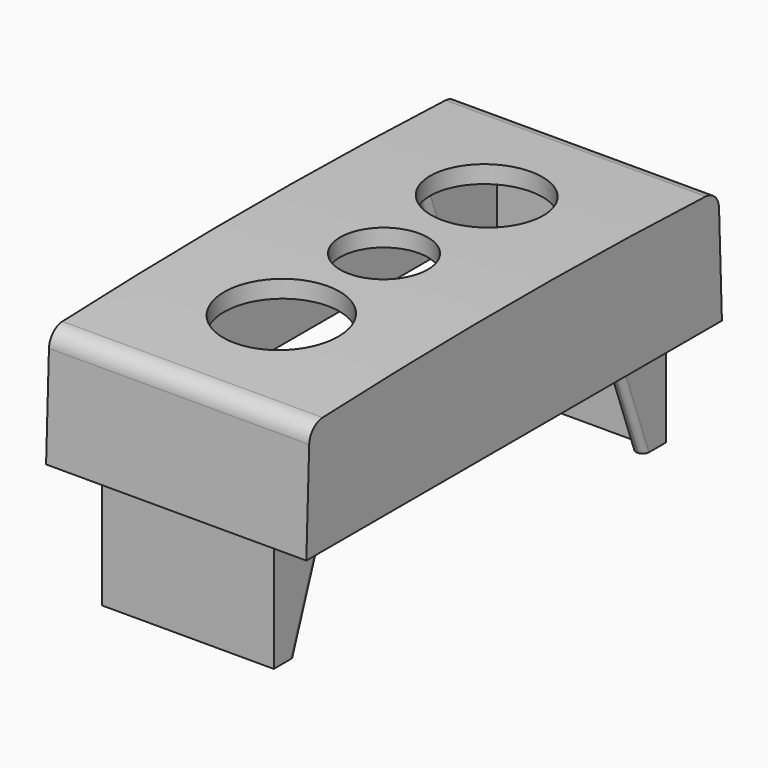
from build123d import *

# Parameters (mm, degrees)
PAD_DEPTH               = 9.65
PAD001_DEPTH            = 1.5
PAD002_DEPTH            = 1.5
SKETCH003_W             = 14.7
SKETCH003_H             = 1.07
PAD003_DEPTH            = 19
PAD004_DEPTH            = 1.1
PAD005_DEPTH            = 1.1
FILLET001_R             = 0.5
CHAMFER_SIZE            = 0.7
SKETCH011_R             = 3.75
SKETCH011_R_2           = 4.75
SKETCH011_R_3           = 5
POCKET001_DEPTH         = 5
POCKET001_DEPTH_BACK    = 5
BODY001_PLACEMENT_ANGLE = 90


with BuildPart() as part:
    # Sketch → Pad (new body, symmetric)
    with BuildSketch(Plane.YZ):
        with BuildLine():
            ThreePointArc((0, 20.5122), (-0.4209, 0), (0, -20.5122))
            ThreePointArc((0, -20.5122), (0.44097, -21.514212), (1.445369, -21.949718))
            Line((1.445369, -21.949718), (10.0791, -22.257094))
            Line((10.0791, -22.257094), (10.0791, -20.756143))
            Line((1.498737, -20.450667), (10.0791, -20.756143))
            ThreePointArc((1.498737, 20.450667), (1.0791, 0), (1.498737, -20.450667))
            Line((1.498737, 20.450667), (10.0791, 20.756143))
            Line((10.0791, 20.756143), (10.0791, 22.257094))
            Line((1.445369, 21.949718), (10.0791, 22.257094))
            ThreePointArc((1.445369, 21.949718), (0.44097, 21.514212), (0, 20.5122))
        make_face()
    extrude(amount=PAD_DEPTH, both=True)

    # Sketch001 → Pad001 (join)
    with BuildSketch(Plane.YZ.offset(9.65)):
        with BuildLine():
            ThreePointArc((0, 20.5122), (-0.4209, 0), (0, -20.5122))
            ThreePointArc((0, -20.5122), (0.44097, -21.514212), (1.445369, -21.949718))
            Line((1.445369, -21.949718), (10.0791, -22.257094))
            Line((10.0791, 22.257094), (10.0791, -22.257094))
            Line((1.445369, 21.949718), (10.0791, 22.257094))
            ThreePointArc((1.445369, 21.949718), (0.44097, 21.514212), (0, 20.5122))
        make_face()
    extrude(amount=PAD001_DEPTH)

    # Sketch002 → Pad002 (join)
    with BuildSketch(Plane.YZ.offset(-9.65)):
        with BuildLine():
            ThreePointArc((0, 20.5122), (-0.4209, 0), (0, -20.5122))
            ThreePointArc((0, -20.5122), (0.44097, -21.514212), (1.445369, -21.949718))
            Line((1.445369, -21.949718), (10.0791, -22.257094))
            Line((10.0791, 22.257094), (10.0791, -22.257094))
            Line((1.445369, 21.949718), (10.0791, 22.257094))
            ThreePointArc((1.445369, 21.949718), (0.44097, 21.514212), (0, 20.5122))
        make_face()
    extrude(amount=-PAD002_DEPTH)

    # Sketch003 → Pad003 (join)
    with BuildSketch(Plane.XZ.offset(-1)):
        with Locations((0, 20.46)):
            Rectangle(SKETCH003_W, SKETCH003_H)
        with Locations((0, -20.46)):
            Rectangle(SKETCH003_W, SKETCH003_H)
    extrude(amount=-PAD003_DEPTH)

    # Sketch004 → Pad004 (join)
    with BuildSketch(Plane.YZ.offset(7.35)):
        Polygon((1.2, 11.82), (1.2, 19.925), (20, 19.925), (20, 18.665), align=None)
        Polygon((1.2, -11.82), (1.2, -19.925), (20, -19.925), (20, -18.665), align=None)
    extrude(amount=-PAD004_DEPTH)

    # Sketch010 → Pad005 (join)
    with BuildSketch(Plane.YZ.offset(-7.35)):
        Polygon((1.2, 11.82), (1.2, 19.925), (20, 19.925), (20, 18.665), align=None)
        Polygon((1.2, -11.82), (1.2, -19.925), (20, -19.925), (20, -18.665), align=None)
    extrude(amount=PAD005_DEPTH)

    # Fillet001
    fillet001_edges = [part.edges().sort_by_distance(p)[0] for p in [
        (7.35, 10.609705, 15.246034),
        (6.25, 10.609705, 15.246034),
        (-6.25, 10.609705, 15.246034),
        (-7.35, 10.609705, 15.246034),
        (7.35, 10.609705, -15.246034),
        (6.25, 10.609705, -15.246034),
        (-6.25, 10.609705, -15.246034),
        (-7.35, 10.609705, -15.246034),
    ]]
    fillet(fillet001_edges, radius=FILLET001_R)

    # Chamfer
    chamfer_edges = [part.edges().sort_by_distance(p)[0] for p in [
        (9.65, 5.788919, 20.603405),
        (-9.65, 5.788919, 20.603405),
        (-9.65, 5.788919, -20.603405),
        (9.65, 5.788919, -20.603405),
    ]]
    chamfer(chamfer_edges, length=CHAMFER_SIZE)

    # Sketch011 → Pocket001 (cut, two sides)
    with BuildSketch(Plane.XZ) as pocket001_sk:
        Circle(SKETCH011_R)
        with Locations((0, 11)):
            Circle(SKETCH011_R_2)
        with Locations((0, -11)):
            Circle(SKETCH011_R_3)
    extrude(amount=-POCKET001_DEPTH, mode=Mode.SUBTRACT)
    extrude(pocket001_sk.sketch, amount=POCKET001_DEPTH_BACK, mode=Mode.SUBTRACT)


with BuildPart() as part_1:
    # Body001 placement: moved
    add(part.part.moved(Location((0, 0, 12))).rotate(Axis((0, 0, 12), (-1, 0, 0)), BODY001_PLACEMENT_ANGLE))


solid = part_1.part
